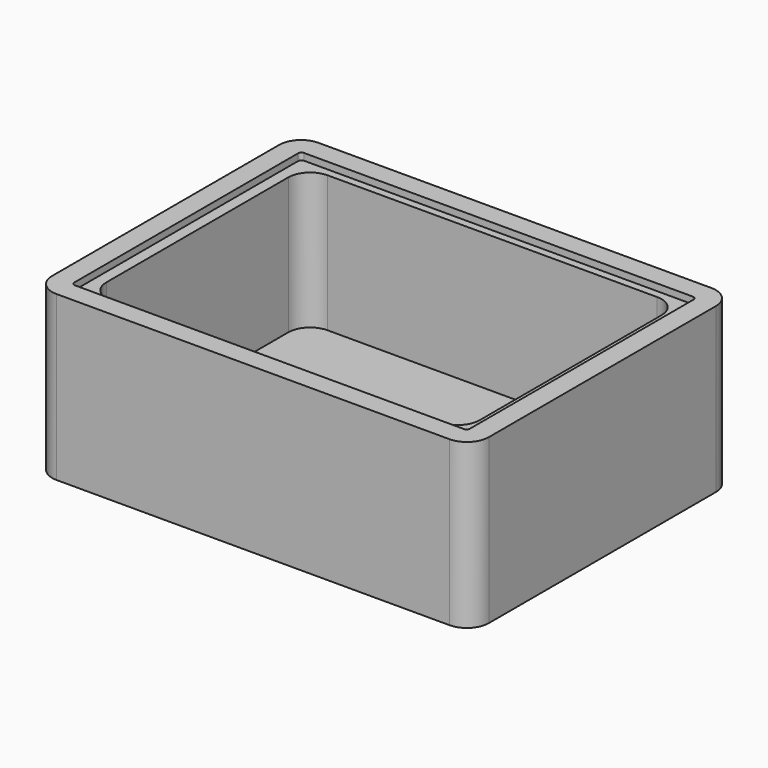
from build123d import *

# Parameters (mm, degrees)
F0_W     = 101.6
F0_H     = 76.2
F1_DEPTH = 38.1
F2_T     = -4.7625
F3_W     = 92.075
F3_H     = 66.675
F3_W_2   = 86.8494564931
F3_H_2   = 63.0672035732
F4_DEPTH = 31.75
F5_R     = 0.762
F6_R     = 5.08
F7_R     = 5.08


with BuildPart() as f1:
    # F0 (on Top) → F1 (new body)
    with BuildSketch(Plane.XY):
        Rectangle(F0_W, F0_H)
    extrude(amount=F1_DEPTH)

    # F2
    f2_openings = [f1.faces().sort_by_distance(p)[0] for p in [
        (0, 0, 38.1),
    ]]
    offset(amount=F2_T, openings=f2_openings)

    # F3 (on face) → F4 (join)
    with BuildSketch(Plane.XY.offset(4.7625)):
        Rectangle(F3_W, F3_H)
        Rectangle(F3_W_2, F3_H_2, mode=Mode.SUBTRACT)
    extrude(amount=F4_DEPTH)

    # F5
    f5_edges = [f1.edges().sort_by_distance(p)[0] for p in [
        (-46.0375, 33.3375, 37.30625),
        (46.0375, 33.3375, 37.30625),
        (46.0375, -33.3375, 37.30625),
        (-46.0375, -33.3375, 37.30625),
    ]]
    fillet(f5_edges, radius=F5_R)

    # F6
    f6_edges = [f1.edges().sort_by_distance(p)[0] for p in [
        (43.424728, 31.533602, 20.6375),
        (43.424728, -31.533602, 20.6375),
        (-43.424728, -31.533602, 20.6375),
        (-43.424728, 31.533602, 20.6375),
    ]]
    fillet(f6_edges, radius=F6_R)

    # F7
    f7_edges = [f1.edges().sort_by_distance(p)[0] for p in [
        (50.8, 38.1, 19.05),
        (50.8, -38.1, 19.05),
        (-50.8, 38.1, 19.05),
        (-50.8, -38.1, 19.05),
    ]]
    fillet(f7_edges, radius=F7_R)


solid = f1.part
